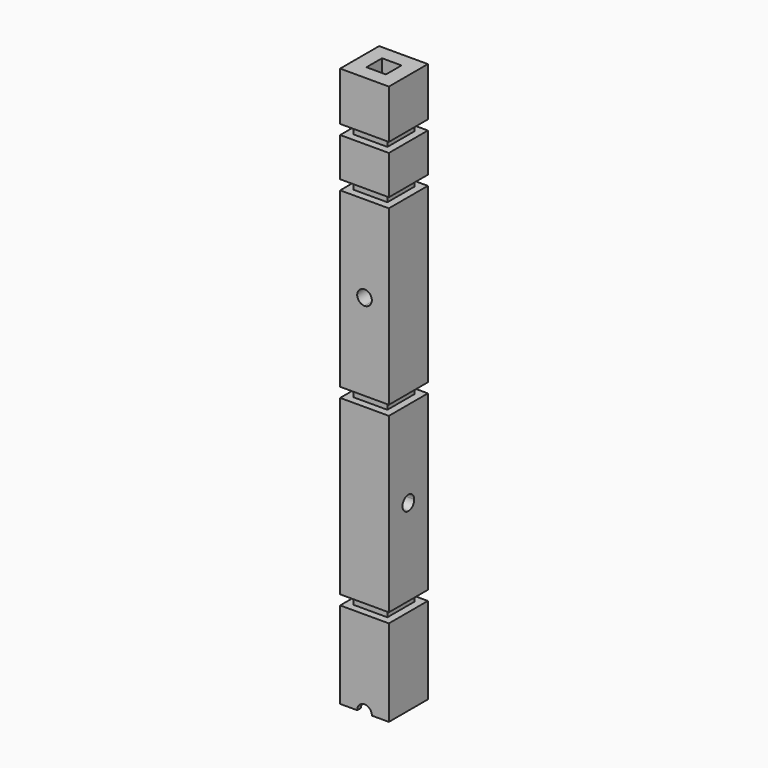
from build123d import *

# Parameters (mm, degrees)
F0_W      = 31.75
F0_H      = 31.75
F1_DEPTH  = 60.33
F2_W      = 22.23
F2_H      = 22.23
F3_DEPTH  = 6.35
F4_W      = 31.75
F4_H      = 31.75
F5_DEPTH  = 112.71
F6_W      = 22.23
F6_H      = 22.23
F7_DEPTH  = 6.35
F8_W      = 31.75
F8_H      = 31.75
F8_W_2    = 22.23
F8_H_2    = 22.23
F9_DEPTH  = 112.71
F10_W     = 22.23
F10_H     = 22.23
F11_DEPTH = 6.35
F12_W     = 31.75
F12_H     = 31.75
F12_W_2   = 22.23
F12_H_2   = 22.23
F13_DEPTH = 112.71
F14_W     = 22.23
F14_H     = 22.23
F15_DEPTH = 6.35
F16_W     = 31.75
F16_H     = 31.75
F17_DEPTH = 112.71
F18_W     = 22.23
F18_H     = 22.23
F19_DEPTH = 6.35
F20_W     = 31.75
F20_H     = 31.75
F20_W_2   = 22.23
F20_H_2   = 22.23
F21_DEPTH = 112.71
F22_W     = 22.23
F22_H     = 22.23
F23_DEPTH = 6.35
F24_W     = 31.75
F24_H     = 31.75
F24_W_2   = 22.23
F24_H_2   = 22.23
F25_DEPTH = 25.4
F26_W     = 22.23
F26_H     = 22.23
F27_DEPTH = 6.35
F28_W     = 31.75
F28_H     = 31.75
F28_W_2   = 22.23
F28_H_2   = 22.23
F29_DEPTH = 31.75
F32_DEPTH = 12.7
F34_DEPTH = 12.7
F36_DEPTH = 12.7
F38_DEPTH = 12.7
F40_DEPTH = 12.7
F41_W     = 12.7
F41_H     = 12.7
F42_DEPTH = 736.6
F43_DEPTH = 6.35
F44_W     = 31.75
F44_H     = 360.990007
F45_DEPTH = 76.2
F47_DEPTH = 12.7


with BuildPart() as f1:
    # F0 (on Top) → F1 (new body)
    with BuildSketch(Plane.XY):
        with Locations((15.875, 15.875)):
            Rectangle(F0_W, F0_H)
    extrude(amount=F1_DEPTH)

    # F2 (on face) → F3 (join)
    with BuildSketch(Plane.XY.offset(60.33)):
        with Locations((15.875, 15.875)):
            Rectangle(F2_W, F2_H)
    extrude(amount=F3_DEPTH)

    # F4 (on face) → F5 (join)
    with BuildSketch(Plane.XY.offset(66.68)):
        with Locations((15.875, 15.875)):
            Rectangle(F4_W, F4_H)
    extrude(amount=F5_DEPTH)

    # F6 (on face) → F7 (join)
    with BuildSketch(Plane.XY.offset(179.39)):
        with Locations((15.875, 15.875)):
            Rectangle(F6_W, F6_H)
    extrude(amount=F7_DEPTH)

    # F8 (on face) → F9 (join)
    with BuildSketch(Plane.XY.offset(185.74)):
        with Locations((15.875, 15.875)):
            Rectangle(F8_W, F8_H)
        with Locations((15.875, 15.875)):
            Rectangle(F8_W_2, F8_H_2, mode=Mode.SUBTRACT)
        with Locations((15.875, 15.875)):
            Rectangle(F8_W_2, F8_H_2)
    extrude(amount=F9_DEPTH)

    # F10 (on face) → F11 (join)
    with BuildSketch(Plane.XY.offset(298.45)):
        with Locations((15.875, 15.875)):
            Rectangle(F10_W, F10_H)
    extrude(amount=F11_DEPTH)

    # F12 (on face) → F13 (join)
    with BuildSketch(Plane.XY.offset(304.8)):
        with Locations((15.875, 15.875)):
            Rectangle(F12_W, F12_H)
        with Locations((15.875, 15.875)):
            Rectangle(F12_W_2, F12_H_2, mode=Mode.SUBTRACT)
        with Locations((15.875, 15.875)):
            Rectangle(F12_W_2, F12_H_2)
    extrude(amount=F13_DEPTH)

    # F14 (on face) → F15 (join)
    with BuildSketch(Plane.XY.offset(417.51)):
        with Locations((15.875, 15.875)):
            Rectangle(F14_W, F14_H)
    extrude(amount=F15_DEPTH)

    # F16 (on face) → F17 (join)
    with BuildSketch(Plane.XY.offset(423.86)):
        with Locations((15.875, 15.875)):
            Rectangle(F16_W, F16_H)
    extrude(amount=F17_DEPTH)

    # F18 (on face) → F19 (join)
    with BuildSketch(Plane.XY.offset(536.57)):
        with Locations((15.875, 15.875)):
            Rectangle(F18_W, F18_H)
    extrude(amount=F19_DEPTH)

    # F20 (on face) → F21 (join)
    with BuildSketch(Plane.XY.offset(542.92)):
        with Locations((15.875, 15.875)):
            Rectangle(F20_W, F20_H)
        with Locations((15.875, 15.875)):
            Rectangle(F20_W_2, F20_H_2, mode=Mode.SUBTRACT)
        with Locations((15.875, 15.875)):
            Rectangle(F20_W_2, F20_H_2)
    extrude(amount=F21_DEPTH)

    # F22 (on face) → F23 (join)
    with BuildSketch(Plane.XY.offset(655.63)):
        with Locations((15.875, 15.875)):
            Rectangle(F22_W, F22_H)
    extrude(amount=F23_DEPTH)

    # F24 (on face) → F25 (join)
    with BuildSketch(Plane.XY.offset(661.98)):
        with Locations((15.875, 15.875)):
            Rectangle(F24_W, F24_H)
        with Locations((15.875, 15.875)):
            Rectangle(F24_W_2, F24_H_2, mode=Mode.SUBTRACT)
        with Locations((15.875, 15.875)):
            Rectangle(F24_W_2, F24_H_2)
    extrude(amount=F25_DEPTH)

    # F26 (on face) → F27 (join)
    with BuildSketch(Plane.XY.offset(687.38)):
        with Locations((15.875, 15.875)):
            Rectangle(F26_W, F26_H)
    extrude(amount=F27_DEPTH)

    # F28 (on face) → F29 (join)
    with BuildSketch(Plane.XY.offset(693.73)):
        with Locations((15.875, 15.875)):
            Rectangle(F28_W, F28_H)
        with Locations((15.875, 15.875)):
            Rectangle(F28_W_2, F28_H_2, mode=Mode.SUBTRACT)
        with Locations((15.875, 15.875)):
            Rectangle(F28_W_2, F28_H_2)
    extrude(amount=F29_DEPTH)

    # F31 (on face) → F32 (cut)
    with BuildSketch(Plane.XZ):
        with BuildLine():
            Line((15.875, 123.035), (20.64, 123.035))
            ThreePointArc((20.64, 123.035), (12.5056361876, 126.4043638124), (15.875, 118.27))
            Line((15.875, 118.27), (15.875, 123.035))
        make_face()
        with BuildLine():
            ThreePointArc((15.875, 118.27), (19.2443638124, 119.6656361876), (20.64, 123.035))
            Line((20.64, 123.035), (15.875, 123.035))
            Line((15.875, 123.035), (15.875, 118.27))
        make_face()
    extrude(amount=-F32_DEPTH, mode=Mode.SUBTRACT)

    # F33 (on face) → F34 (cut)
    with BuildSketch(Plane.YZ.offset(31.75)):
        with BuildLine():
            Line((15.875, 242.095), (20.64, 242.095))
            ThreePointArc((20.64, 242.095), (12.5056361876, 245.4643638124), (15.875, 237.33))
            Line((15.875, 237.33), (15.875, 242.095))
        make_face()
        with BuildLine():
            ThreePointArc((15.875, 237.33), (19.2443638124, 238.7256361876), (20.64, 242.095))
            Line((20.64, 242.095), (15.875, 242.095))
            Line((15.875, 242.095), (15.875, 237.33))
        make_face()
    extrude(amount=-F34_DEPTH, mode=Mode.SUBTRACT)

    # F35 (on face) → F36 (cut)
    with BuildSketch(Plane.XZ):
        with BuildLine():
            Line((15.875, 361.155), (20.64, 361.155))
            ThreePointArc((20.64, 361.155), (12.5056361876, 364.5243638124), (15.875, 356.39))
            Line((15.875, 356.39), (15.875, 361.155))
        make_face()
        with BuildLine():
            ThreePointArc((15.875, 356.39), (19.2443638124, 357.7856361876), (20.64, 361.155))
            Line((20.64, 361.155), (15.875, 361.155))
            Line((15.875, 361.155), (15.875, 356.39))
        make_face()
    extrude(amount=-F36_DEPTH, mode=Mode.SUBTRACT)

    # F37 (on face) → F38 (cut)
    with BuildSketch(Plane.YZ.offset(31.75)):
        with BuildLine():
            Line((15.875, 480.215), (20.64, 480.215))
            ThreePointArc((20.64, 480.215), (12.5056361876, 483.5843638124), (15.875, 475.45))
            Line((15.875, 475.45), (15.875, 480.215))
        make_face()
        with BuildLine():
            ThreePointArc((15.875, 475.45), (19.2443638124, 476.8456361876), (20.64, 480.215))
            Line((20.64, 480.215), (15.875, 480.215))
            Line((15.875, 480.215), (15.875, 475.45))
        make_face()
    extrude(amount=-F38_DEPTH, mode=Mode.SUBTRACT)

    # F39 (on face) → F40 (cut)
    with BuildSketch(Plane.XZ):
        with BuildLine():
            Line((15.875, 599.275), (20.64, 599.275))
            ThreePointArc((20.64, 599.275), (12.5056361876, 602.6443638124), (15.875, 594.51))
            Line((15.875, 594.51), (15.875, 599.275))
        make_face()
        with BuildLine():
            ThreePointArc((15.875, 594.51), (19.2443638124, 595.9056361876), (20.64, 599.275))
            Line((20.64, 599.275), (15.875, 599.275))
            Line((15.875, 599.275), (15.875, 594.51))
        make_face()
    extrude(amount=-F40_DEPTH, mode=Mode.SUBTRACT)

    # F41 (on face) → F42 (cut)
    with BuildSketch(Plane.XY.offset(725.48)):
        with Locations((15.87, 15.87)):
            Rectangle(F41_W, F41_H)
    extrude(amount=-F42_DEPTH, mode=Mode.SUBTRACT)

    # F30 (on face) → F43 (cut)
    with BuildSketch(Plane(origin=(0, 0, 0), x_dir=(1, 0, 0), z_dir=(0, 0, -1))):
        with BuildLine():
            ThreePointArc((6.35, -15.875), (9.1398079092, -22.6101920908), (15.875, -25.4))
            Line((15.875, -25.4), (15.875, -15.875))
            Line((15.875, -15.875), (6.35, -15.875))
        make_face()
        with BuildLine():
            Line((15.875, -15.875), (15.875, -25.4))
            ThreePointArc((15.875, -25.4), (22.6101920908, -22.6101920908), (25.4, -15.875))
            ThreePointArc((25.4, -15.875), (15.875, -6.35), (6.35, -15.875))
            Line((6.35, -15.875), (15.875, -15.875))
        make_face()
    extrude(amount=-F43_DEPTH, mode=Mode.SUBTRACT)

    # F44 (on face) → F45 (cut)
    with BuildSketch(Plane.XZ):
        with Locations((15.875, 180.4950035)):
            Rectangle(F44_W, F44_H)
    extrude(amount=-F45_DEPTH, mode=Mode.SUBTRACT)

    # F46 (on face) → F47 (cut)
    with BuildSketch(Plane(origin=(0, 0, 360.990007), x_dir=(1, 0, 0), z_dir=(0, 0, -1))):
        Polygon((11.1128573824, -9.52), (11.1128573824, -3.175), (3.175, -3.175), (3.175, -28.575), (28.575, -28.575), (28.575, -3.175), (20.6371426176, -3.175), (20.6371426176, -9.52), (22.22, -9.52), (22.22, -22.22), (9.52, -22.22), (9.52, -9.52), align=None)
        Polygon((20.6371426176, -3.175), (11.1128573824, -3.175), (11.1128573824, -9.52), (9.52, -9.52), (9.52, -22.22), (22.22, -22.22), (22.22, -9.52), (20.6371426176, -9.52), align=None)
    extrude(amount=-F47_DEPTH, mode=Mode.SUBTRACT)


solid = f1.part
